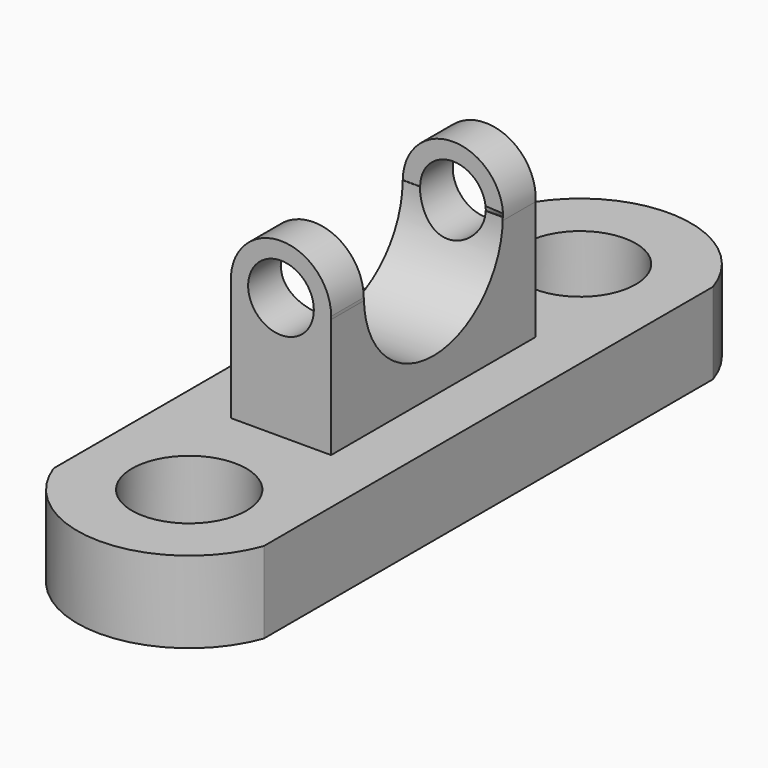
from build123d import *

# Parameters (mm, degrees)
F0_R      = 17.8353013773
F0_R_2    = 17.3294738688
F1_DEPTH  = 25.4
F2_W      = 31.2288608402
F2_H      = 79.752035439
F3_DEPTH  = 38.1
F5_DEPTH  = 50.8
F7_DEPTH  = 12.7
F9_DEPTH  = 12.7
F10_R     = 10.2407588529
F11_DEPTH = 1270


with BuildPart() as f1:
    # F0 (on Top) → F1 (new body)
    with BuildSketch(Plane.XY):
        with BuildLine():
            Line((32.7898040414, -87.5596180558), (32.7898040414, 87.5596180558))
            ThreePointArc((32.7898040414, 87.5596180558), (0, 111.2754727593), (-32.7898040414, 87.5596180558))
            Line((-32.7898040414, 87.5596180558), (-32.7898040414, -87.5596180558))
            ThreePointArc((-32.7898040414, -87.5596180558), (0, -110.5480583126), (32.7898040414, -87.5596180558))
        make_face()
        with Locations((0, -75.6687968969)):
            Circle(F0_R, mode=Mode.SUBTRACT)
        with Locations((0, 76.7497718334)):
            Circle(F0_R_2, mode=Mode.SUBTRACT)
    extrude(amount=F1_DEPTH)

    # F2 (on face) → F3 (join)
    with BuildSketch(Plane.XY.offset(25.4)):
        Rectangle(F2_W, F2_H)
    extrude(amount=F3_DEPTH)

    # F4 (on face) → F5 (cut)
    with BuildSketch(Plane(origin=(-15.6144304201, 0, 0), x_dir=(0, -1, 0), z_dir=(-1, 0, 0))):
        with BuildLine():
            ThreePointArc((-27.0720647406, 63.5), (0, 36.4279352594), (27.0720647406, 63.5))
            Line((27.0720647406, 63.5), (-27.0720647406, 63.5))
        make_face()
    extrude(amount=-F5_DEPTH, mode=Mode.SUBTRACT)

    # F6 (on face) → F7 (join)
    with BuildSketch(Plane(origin=(0, 39.8760177195, 0), x_dir=(-1, 0, 0), z_dir=(0, 1, 0))):
        with BuildLine():
            ThreePointArc((15.6144304201, 62.5617992852), (15.6355493835, 63.0306883743), (15.6425911513, 63.5))
            ThreePointArc((15.6425911513, 63.5), (-0.4693116257, 79.1355493835), (-15.6144304201, 62.5617992852))
            Line((-15.6144304201, 62.5617992852), (-15.6144304201, 63.5))
            Line((-15.6144304201, 63.5), (15.6144304201, 63.5))
            Line((15.6144304201, 63.5), (15.6144304201, 62.5617992852))
        make_face()
    extrude(amount=-F7_DEPTH)

    # F8 (on face) → F9 (join)
    with BuildSketch(Plane.XZ.offset(39.8760177195)):
        with BuildLine():
            ThreePointArc((15.6144304201, 62.5804341006), (15.6347195512, 63.0400181066), (15.6414845455, 63.5))
            ThreePointArc((15.6414845455, 63.5), (-0.4599818934, 79.1347195512), (-15.6144304201, 62.5804341006))
            Line((-15.6144304201, 62.5804341006), (-15.6144304201, 63.5))
            Line((-15.6144304201, 63.5), (15.6144304201, 63.5))
            Line((15.6144304201, 63.5), (15.6144304201, 62.5804341006))
        make_face()
    extrude(amount=-F9_DEPTH)

    # F10 (on face) → F11 (cut)
    with BuildSketch(Plane.XZ.offset(39.8760177195)):
        with Locations((0, 63.5)):
            Circle(F10_R)
    extrude(amount=-F11_DEPTH, mode=Mode.SUBTRACT)


solid = f1.part
